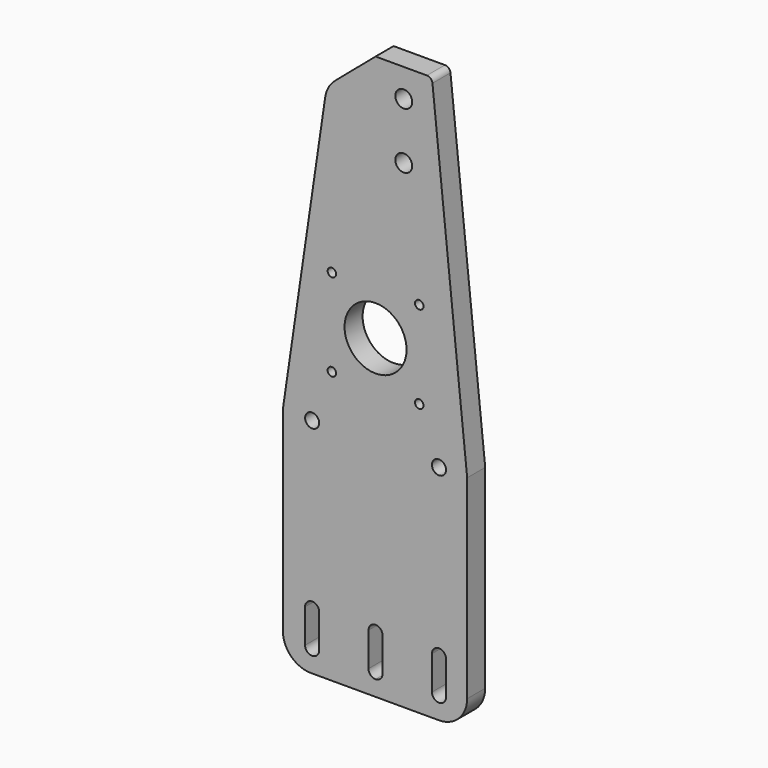
from build123d import *

# Parameters (mm, degrees)
F0_R     = 2.5
F0_R_2   = 1.5
F0_R_3   = 11
F0_R_4   = 3
F2_DEPTH = 8


with BuildPart() as f2:
    # F0 (on Front) → F2 (new body)
    with BuildSketch(Plane.XZ):
        with BuildLine():
            Line((-22.9077306539, -100), (0, -100))
            Line((0, -100), (22.5, -100))
            ThreePointArc((22.5, -100), (29.5710678119, -97.0710678119), (32.5, -90))
            Line((32.5, -90), (32.5, -21))
            Line((32.5, -21), (20.1853803896, 98.2055178287))
            ThreePointArc((20.1853803896, 98.2055178287), (19.5355506422, 99.4850985923), (18.1959678074, 100))
            Line((18.1959678074, 100), (0, 100))
            Line((0, 100), (-14.4484399937, 87.6883463137))
            ThreePointArc((-14.4484399937, 87.6883463137), (-16.712360283, 84.9186150029), (-17.8566008934, 81.5292994325))
            Line((-17.8566008934, 81.5292994325), (-32.8016926817, -20.2776622636))
            ThreePointArc((-32.8016926817, -20.2776622636), (-32.8811859297, -21.0019379755), (-32.9077306539, -21.7300793498))
            Line((-32.9077306539, -21.7300793498), (-32.9077306539, -90))
            ThreePointArc((-32.9077306539, -90), (-29.9787984657, -97.0710678119), (-22.9077306539, -100))
        make_face()
        with BuildLine():
            Line((-25, -92), (-25, -80))
            ThreePointArc((-25, -80), (-22.5, -77.5), (-20, -80))
            Line((-20, -80), (-20, -92))
            ThreePointArc((-20, -92), (-22.5, -94.5), (-25, -92))
        make_face(mode=Mode.SUBTRACT)
        with Locations((-22.5, -21)):
            Circle(F0_R, mode=Mode.SUBTRACT)
        with Locations((-15.5, -3.5)):
            Circle(F0_R_2, mode=Mode.SUBTRACT)
        with BuildLine():
            Line((-2.5, -92), (-2.5, -80))
            ThreePointArc((-2.5, -80), (0, -77.5), (2.5, -80))
            Line((2.5, -80), (2.5, -92))
            ThreePointArc((2.5, -92), (1.767766953, -93.767766953), (0, -94.5))
            ThreePointArc((0, -94.5), (-1.767766953, -93.767766953), (-2.5, -92))
        make_face(mode=Mode.SUBTRACT)
        with BuildLine():
            Line((20, -92), (20, -80))
            ThreePointArc((20, -80), (22.5, -77.5), (25, -80))
            Line((25, -80), (25, -92))
            ThreePointArc((25, -92), (22.5, -94.5), (20, -92))
        make_face(mode=Mode.SUBTRACT)
        with Locations((15.5, -3.5)):
            Circle(F0_R_2, mode=Mode.SUBTRACT)
        with Locations((22.5, -21)):
            Circle(F0_R, mode=Mode.SUBTRACT)
        with Locations((-15.5, 27.5)):
            Circle(F0_R_2, mode=Mode.SUBTRACT)
        with Locations((0, 12)):
            Circle(F0_R_3, mode=Mode.SUBTRACT)
        with Locations((15.5, 27.5)):
            Circle(F0_R_2, mode=Mode.SUBTRACT)
        with Locations((10, 70)):
            Circle(F0_R_4, mode=Mode.SUBTRACT)
        with Locations((10, 90)):
            Circle(F0_R_4, mode=Mode.SUBTRACT)
    extrude(amount=F2_DEPTH)


solid = f2.part
